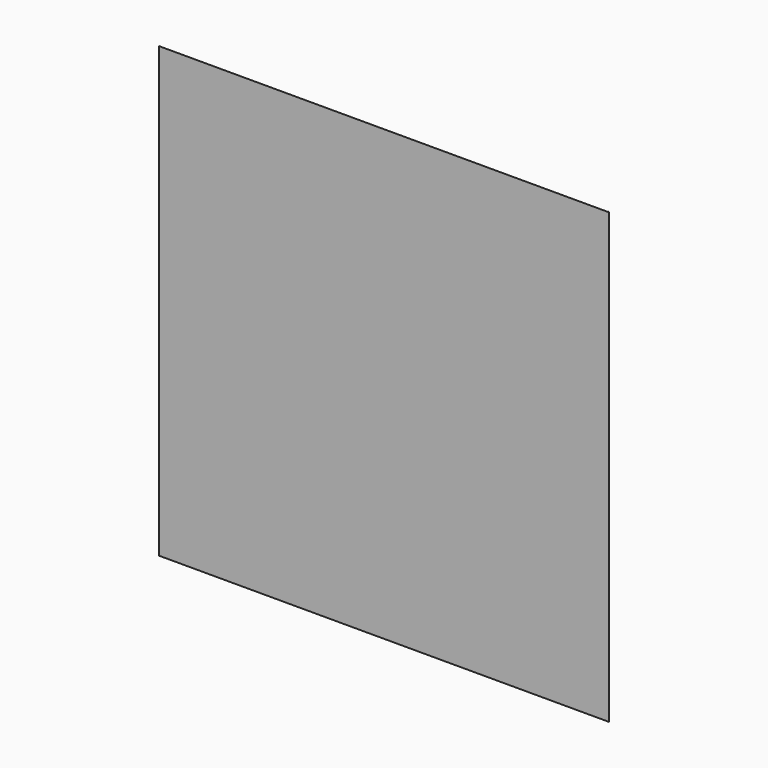
from build123d import *

# Parameters (mm, degrees)
F2_DEPTH = 20
F4_DEPTH = 20


with BuildPart() as f2:
    # F1 (on Top) → F2 (new body)
    with BuildSketch(Plane.XY):
        Polygon((10, 8), (0, 0), (20.059556, 0), align=None)
    extrude(amount=F2_DEPTH)

    # F3 (on Right) → F4 (cut)
    with BuildSketch(Plane.YZ):
        Polygon((8, 10), (0, 0), (8, 0), align=None)
        Polygon((0, 20), (8, 10), (8, 20), align=None)
    extrude(amount=F4_DEPTH, mode=Mode.SUBTRACT)


solid = f2.part
